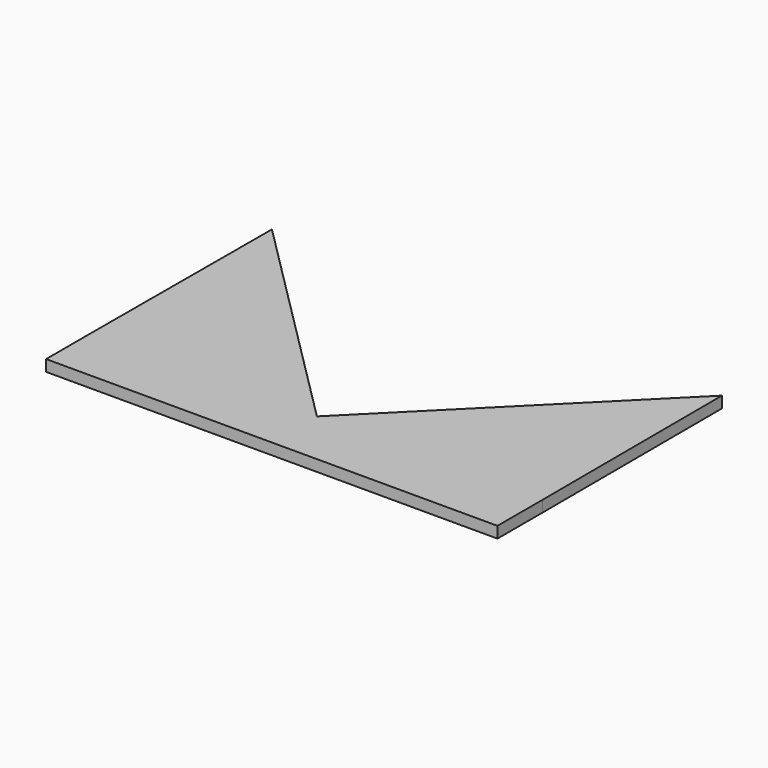
from build123d import *

# Parameters (mm, degrees)
F0_W     = 20
F0_H     = 5
F1_DEPTH = 1


with BuildPart() as f1:
    # F0 (on Top) → F1 (new body)
    with BuildSketch(Plane.XY):
        with Locations((-10, 2.5)):
            Rectangle(F0_W, F0_H)
        with Locations((10, 2.5)):
            Rectangle(F0_W, F0_H)
        Polygon((-20, 5), (0, 5), (-19.938792, 24.938792), align=None)
        Polygon((19.938792, 24.938792), (0, 5), (20, 5), align=None)
    extrude(amount=F1_DEPTH)


solid = f1.part
